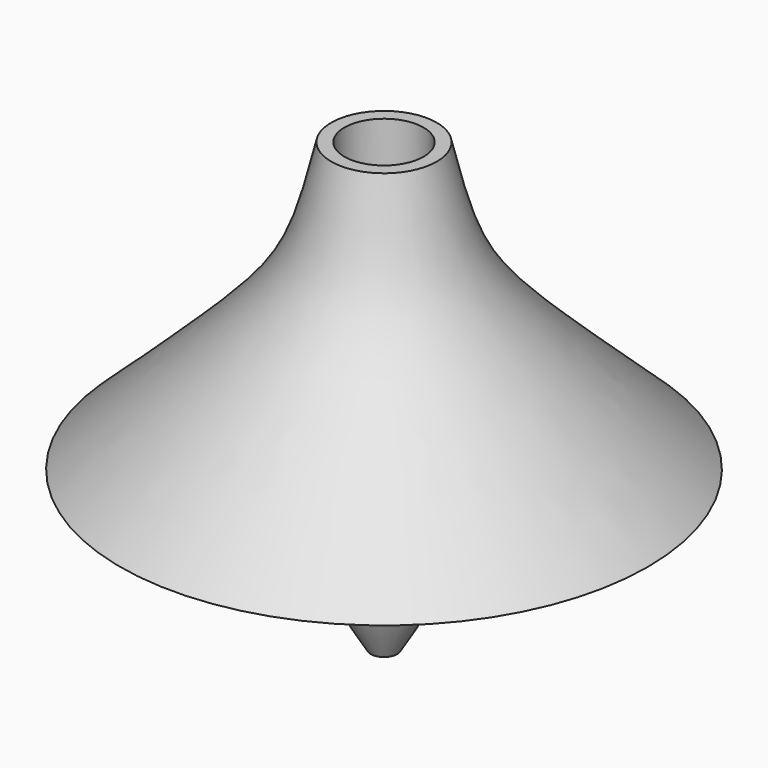
from build123d import *

# Parameters (mm, degrees)
F2_R     = 4.7625
F3_DEPTH = 9.525


with BuildPart() as f1:
    # F0 (on Front) → F1 (revolve)
    with BuildSketch(Plane.XZ):
        with BuildLine():
            add(Edge.make_bspline(
                [(1.5875, -31.75), (11.978928, -16.045667), (4.337432, 0), (31.75, -12.7)],
                knots=[0, 0, 0, 0, 35.674626, 35.674626, 35.674626, 35.674626], degree=3))
            add(Edge.make_bspline(
                [(6.35, 21.971), (9.779001, 7.630583), (9.779001, 7.630583), (31.75, -12.7)],
                knots=[0, 0, 0, 0, 42.97951, 42.97951, 42.97951, 42.97951], degree=3))
            Line((6.35, 21.971), (0, 21.971))
            Line((0, 21.971), (0, -10.16))
            Line((0, -10.16), (1.5875, -10.16))
            Line((1.5875, -10.16), (1.5875, -31.75))
        make_face()
    revolve(axis=Axis((0, 0, 0), (0, 0, 1)))

    # F2 (on face) → F3 (cut)
    with BuildSketch(Plane.XY.offset(21.971)):
        Circle(F2_R)
    extrude(amount=-F3_DEPTH, mode=Mode.SUBTRACT)


solid = f1.part
